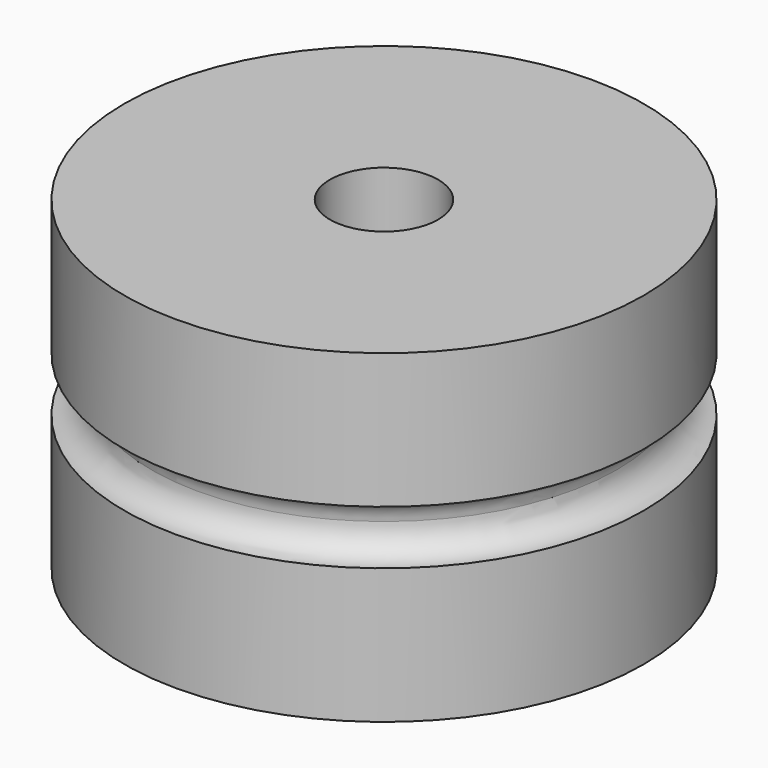
from build123d import *

# Parameters (mm, degrees)
F2_R     = 3.175
F3_DEPTH = 25.4
F4_R     = 3.175
F5_DEPTH = 25.4


with BuildPart() as f1:
    # F0 (on Front) → F1 (revolve)
    with BuildSketch(Plane.XZ):
        with BuildLine():
            Line((0, -19.05), (0, 0))
            Line((0, 0), (-15.24, 0))
            Line((-15.24, 0), (-15.24, -7.9375))
            ThreePointArc((-15.24, -7.9375), (-14.117468, -8.402468), (-13.6525, -9.525))
            ThreePointArc((-13.6525, -9.525), (-14.117468, -10.647532), (-15.24, -11.1125))
            Line((-15.24, -11.1125), (-15.24, -19.05))
            Line((-15.24, -19.05), (0, -19.05))
        make_face()
    revolve(axis=Axis((0, 0, -9.525), (0, 0, -1)))

    # F2 (on face) → F3 (cut)
    with BuildSketch(Plane.XY):
        Circle(F2_R)
    extrude(amount=-F3_DEPTH, mode=Mode.SUBTRACT)

    # F4 (on face) → F5 (cut)
    with BuildSketch(Plane.XY):
        Circle(F4_R)
    extrude(amount=-F5_DEPTH, mode=Mode.SUBTRACT)


solid = f1.part
